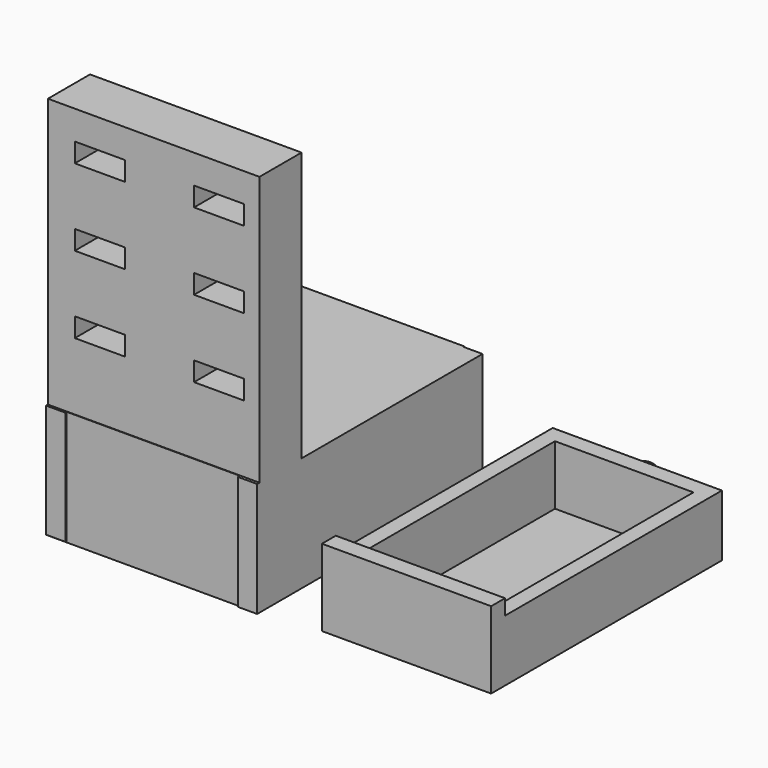
from build123d import *

# Parameters (mm, degrees)
F1_DEPTH      = 30
F1_DEPTH_BACK = 20
F3_W          = 73.25
F3_H          = 29.75
F4_DEPTH      = 5
F5_W          = 13.681313
F5_H          = 70
F6_DEPTH      = 35
F6_DEPTH_BACK = 20
F9_DEPTH      = 44
F10_W         = 36
F10_H         = 65
F11_DEPTH     = 25
F13_R         = 4.5
F14_DEPTH     = 4
F17_W         = 73.25
F17_H         = 29.55224
F18_DEPTH     = 5
F19_W         = 13
F19_H         = 5
F20_DEPTH     = 63


with BuildPart() as f1:
    # F0 (on Right) → F1 (new body, two sides)
    with BuildSketch(Plane.YZ) as f1_sk:
        Polygon((25.516761, 0), (-47.388263, 0), (-47.388263, -29.891057), (25.516761, -29.891057), (25.516761, -24.551472), (-42.772062, -24.551472), (-42.772062, -3.860294), (20.845588, -3.860294), (20.845588, -8.01955), (25.516761, -8.01955), align=None)
    extrude(amount=F1_DEPTH)
    extrude(f1_sk.sketch, amount=-F1_DEPTH_BACK)

    # F3 (on offset) → F4 (join)
    with BuildSketch(Plane.YZ.offset(30)):
        with Locations((-11.386552, -14.875)):
            Rectangle(F3_W, F3_H)
    extrude(amount=F4_DEPTH)

    # F5 (on Right) → F6 (join, two sides)
    with BuildSketch(Plane.YZ) as f6_sk:
        with Locations((-40.419135, 35)):
            Rectangle(F5_W, F5_H)
    extrude(amount=F6_DEPTH)
    extrude(f6_sk.sketch, amount=-F6_DEPTH_BACK)

    # F17 (on offset) → F18 (join)
    with BuildSketch(Plane.YZ.offset(-20)):
        with Locations((-11.229479, -14.77612)):
            Rectangle(F17_W, F17_H)
    extrude(amount=F18_DEPTH)

    # F19 (on Front) → F20 (cut)
    with BuildSketch(Plane.XZ):
        with Locations((24.5, 59.978931)):
            Rectangle(F19_W, F19_H)
        with Locations((-6.5, 59.978931)):
            Rectangle(F19_W, F19_H)
        with Locations((24.5, 39.978931)):
            Rectangle(F19_W, F19_H)
        with Locations((-6.5, 39.978931)):
            Rectangle(F19_W, F19_H)
        with Locations((24.5, 19.978931)):
            Rectangle(F19_W, F19_H)
        with Locations((-6.5, 19.978931)):
            Rectangle(F19_W, F19_H)
    extrude(amount=F20_DEPTH, mode=Mode.SUBTRACT)


with BuildPart() as f9:
    # F8 (on offset) → F9 (new body)
    with BuildSketch(Plane.YZ.offset(55)):
        Polygon((-51.963973, -25.549637), (23.036027, -25.549637), (23.036027, -9.549637), (-47.453791, -9.549637), (-47.453791, -5.549637), (-51.963973, -5.549637), (-51.963973, -9.549637), align=None)
    extrude(amount=F9_DEPTH)

    # F10 (on Top) → F11 (cut)
    with BuildSketch(Plane.XY):
        with Locations((77, -13.719394)):
            Rectangle(F10_W, F10_H)
    extrude(amount=-F11_DEPTH, mode=Mode.SUBTRACT)


with BuildPart() as f14:
    # F13 (on offset) → F14 (new body)
    with BuildSketch(Plane.XZ.offset(-40.2)):
        with Locations((69.575652, -16.543712)):
            Circle(F13_R)
    extrude(amount=-F14_DEPTH)


with BuildPart() as f14_1:
    # F15: moved
    add(f14.part.moved(Location((7.2, -16.8, 0))))


solid = Compound([f1.part, f9.part, f14_1.part])
